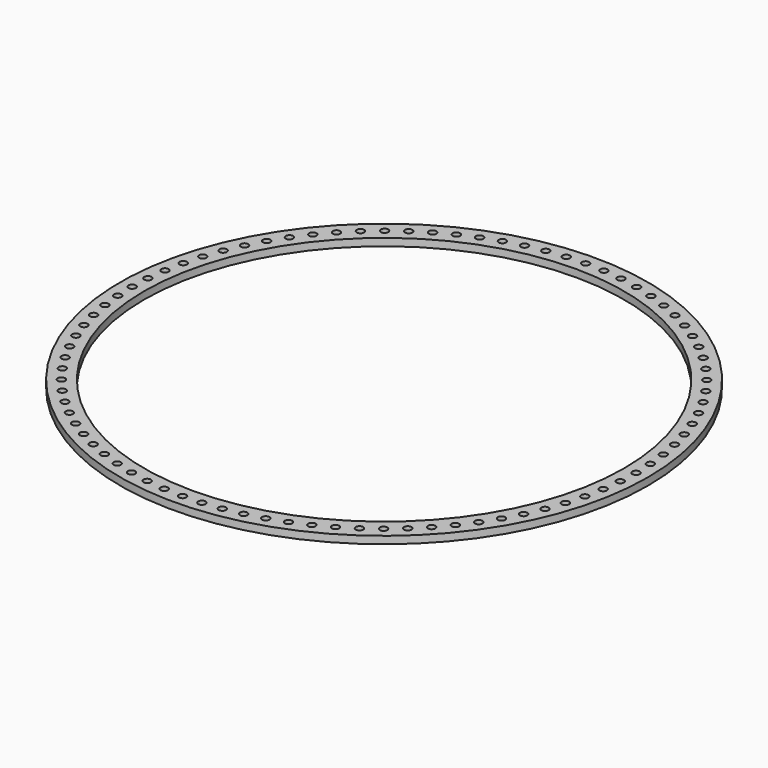
from build123d import *

# Parameters (mm, degrees)
F0_R     = 213.7585
F0_R_2   = 194.315
F1_DEPTH = 6
F2_R     = 3
F3_DEPTH = 6.001


with BuildPart() as f1:
    # F0 (on Top) → F1 (new body)
    with BuildSketch(Plane.XY):
        Circle(F0_R)
        Circle(F0_R_2, mode=Mode.SUBTRACT)
    extrude(amount=F1_DEPTH)

    # F2 (on face) → F3 (cut, through all)
    with BuildSketch(Plane.XY.offset(6)):
        with Locations((0, 204.037)):
            Circle(F2_R)
        with Locations((-15.247704, 203.466471)):
            Circle(F2_R)
        with Locations((-30.410137, 201.758075)):
            Circle(F2_R)
        with Locations((-45.402504, 198.921366)):
            Circle(F2_R)
        with Locations((-60.140962, 194.972209)):
            Circle(F2_R)
        with Locations((-74.543087, 189.932687)):
            Circle(F2_R)
        with Locations((-88.528336, 183.830985)):
            Circle(F2_R)
        with Locations((-102.0185, 176.701225)):
            Circle(F2_R)
        with Locations((-114.938135, 168.583281)):
            Circle(F2_R)
        with Locations((-127.214989, 159.52255)):
            Circle(F2_R)
        with Locations((-138.780405, 149.569705)):
            Circle(F2_R)
        with Locations((-149.569705, 138.780405)):
            Circle(F2_R)
        with Locations((-159.52255, 127.214989)):
            Circle(F2_R)
        with Locations((-168.583281, 114.938135)):
            Circle(F2_R)
        with Locations((-176.701225, 102.0185)):
            Circle(F2_R)
        with Locations((-183.830985, 88.528336)):
            Circle(F2_R)
        with Locations((-189.932687, 74.543087)):
            Circle(F2_R)
        with Locations((-194.972209, 60.140962)):
            Circle(F2_R)
        with Locations((-198.921366, 45.402504)):
            Circle(F2_R)
        with Locations((-201.758075, 30.410137)):
            Circle(F2_R)
        with Locations((-203.466471, 15.247704)):
            Circle(F2_R)
        with Locations((-204.037, 0)):
            Circle(F2_R)
        with Locations((-203.466471, -15.247704)):
            Circle(F2_R)
        with Locations((-201.758075, -30.410137)):
            Circle(F2_R)
        with Locations((-198.921366, -45.402504)):
            Circle(F2_R)
        with Locations((-194.972209, -60.140962)):
            Circle(F2_R)
        with Locations((-189.932687, -74.543087)):
            Circle(F2_R)
        with Locations((-183.830985, -88.528336)):
            Circle(F2_R)
        with Locations((-176.701225, -102.0185)):
            Circle(F2_R)
        with Locations((-168.583281, -114.938135)):
            Circle(F2_R)
        with Locations((-159.52255, -127.214989)):
            Circle(F2_R)
        with Locations((-149.569705, -138.780405)):
            Circle(F2_R)
        with Locations((-138.780405, -149.569705)):
            Circle(F2_R)
        with Locations((-127.214989, -159.52255)):
            Circle(F2_R)
        with Locations((-114.938135, -168.583281)):
            Circle(F2_R)
        with Locations((-102.0185, -176.701225)):
            Circle(F2_R)
        with Locations((-88.528336, -183.830985)):
            Circle(F2_R)
        with Locations((-74.543087, -189.932687)):
            Circle(F2_R)
        with Locations((-60.140962, -194.972209)):
            Circle(F2_R)
        with Locations((-45.402504, -198.921366)):
            Circle(F2_R)
        with Locations((-30.410137, -201.758075)):
            Circle(F2_R)
        with Locations((-15.247704, -203.466471)):
            Circle(F2_R)
        with Locations((0, -204.037)):
            Circle(F2_R)
        with Locations((15.247704, -203.466471)):
            Circle(F2_R)
        with Locations((30.410137, -201.758075)):
            Circle(F2_R)
        with Locations((45.402504, -198.921366)):
            Circle(F2_R)
        with Locations((60.140962, -194.972209)):
            Circle(F2_R)
        with Locations((74.543087, -189.932687)):
            Circle(F2_R)
        with Locations((88.528336, -183.830985)):
            Circle(F2_R)
        with Locations((102.0185, -176.701225)):
            Circle(F2_R)
        with Locations((114.938135, -168.583281)):
            Circle(F2_R)
        with Locations((127.214989, -159.52255)):
            Circle(F2_R)
        with Locations((138.780405, -149.569705)):
            Circle(F2_R)
        with Locations((149.569705, -138.780405)):
            Circle(F2_R)
        with Locations((159.52255, -127.214989)):
            Circle(F2_R)
        with Locations((168.583281, -114.938135)):
            Circle(F2_R)
        with Locations((176.701225, -102.0185)):
            Circle(F2_R)
        with Locations((183.830985, -88.528336)):
            Circle(F2_R)
        with Locations((189.932687, -74.543087)):
            Circle(F2_R)
        with Locations((194.972209, -60.140962)):
            Circle(F2_R)
        with Locations((198.921366, -45.402504)):
            Circle(F2_R)
        with Locations((201.758075, -30.410137)):
            Circle(F2_R)
        with Locations((203.466471, -15.247704)):
            Circle(F2_R)
        with Locations((204.037, 0)):
            Circle(F2_R)
        with Locations((203.466471, 15.247704)):
            Circle(F2_R)
        with Locations((201.758075, 30.410137)):
            Circle(F2_R)
        with Locations((198.921366, 45.402504)):
            Circle(F2_R)
        with Locations((194.972209, 60.140962)):
            Circle(F2_R)
        with Locations((189.932687, 74.543087)):
            Circle(F2_R)
        with Locations((183.830985, 88.528336)):
            Circle(F2_R)
        with Locations((176.701225, 102.0185)):
            Circle(F2_R)
        with Locations((168.583281, 114.938135)):
            Circle(F2_R)
        with Locations((159.52255, 127.214989)):
            Circle(F2_R)
        with Locations((149.569705, 138.780405)):
            Circle(F2_R)
        with Locations((138.780405, 149.569705)):
            Circle(F2_R)
        with Locations((127.214989, 159.52255)):
            Circle(F2_R)
        with Locations((114.938135, 168.583281)):
            Circle(F2_R)
        with Locations((102.0185, 176.701225)):
            Circle(F2_R)
        with Locations((88.528336, 183.830985)):
            Circle(F2_R)
        with Locations((74.543087, 189.932687)):
            Circle(F2_R)
        with Locations((60.140962, 194.972209)):
            Circle(F2_R)
        with Locations((45.402504, 198.921366)):
            Circle(F2_R)
        with Locations((30.410137, 201.758075)):
            Circle(F2_R)
        with BuildLine():
            ThreePointArc((15.018019, 200.475277), (17.286202, 201.265442), (18.247704, 203.466471))
            ThreePointArc((18.247704, 203.466471), (13.209207, 205.6675), (15.018019, 200.475277))
        make_face()
    extrude(amount=-F3_DEPTH, mode=Mode.SUBTRACT)


solid = f1.part
